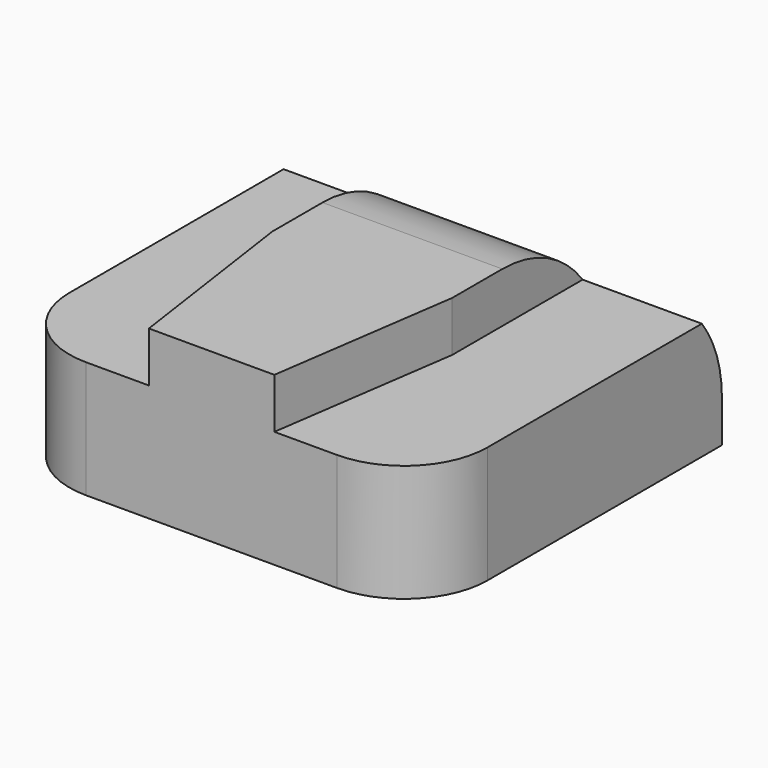
from build123d import *

# Parameters (mm, degrees)
F0_W     = 10
F0_H     = 9
F1_DEPTH = 2.8
F3_DEPTH = 1.2
F4_W     = 2.5
F4_H     = 2.5
F5_DEPTH = 1.5
F6_R     = 2
F7_R     = 3
F8_R     = 0.6


with BuildPart() as f1:
    # F0 (on Top) → F1 (new body)
    with BuildSketch(Plane.XY):
        Rectangle(F0_W, F0_H)
    extrude(amount=F1_DEPTH)

    # F2 (on face) → F3 (join)
    with BuildSketch(Plane.XY.offset(2.8)):
        Polygon((2.15, 4.5), (-2.15, 4.5), (-2.15, 0), (-1.5, -4.5), (1.5, -4.5), (2.15, 0), align=None)
    extrude(amount=F3_DEPTH)

    # F4 (on face) → F5 (join)
    with BuildSketch(Plane(origin=(0, 0, 0), x_dir=(1, 0, 0), z_dir=(0, 0, -1))):
        with Locations((0, 1)):
            Rectangle(F4_W, F4_H)
    extrude(amount=F5_DEPTH)

    # F6
    f6_edges = [f1.edges().sort_by_distance(p)[0] for p in [
        (5, -4.5, 1.4),
        (-5, -4.5, 1.4),
    ]]
    fillet(f6_edges, radius=F6_R)

    # F7
    f7_edges = [f1.edges().sort_by_distance(p)[0] for p in [
        (0, 4.5, 4),
    ]]
    fillet(f7_edges, radius=F7_R)

    # F8
    f8_edges = [f1.edges().sort_by_distance(p)[0] for p in [
        (1.25, -2.25, -0.75),
        (-1.25, -2.25, -0.75),
        (1.25, 0.25, -0.75),
        (-1.25, 0.25, -0.75),
    ]]
    fillet(f8_edges, radius=F8_R)


solid = f1.part
